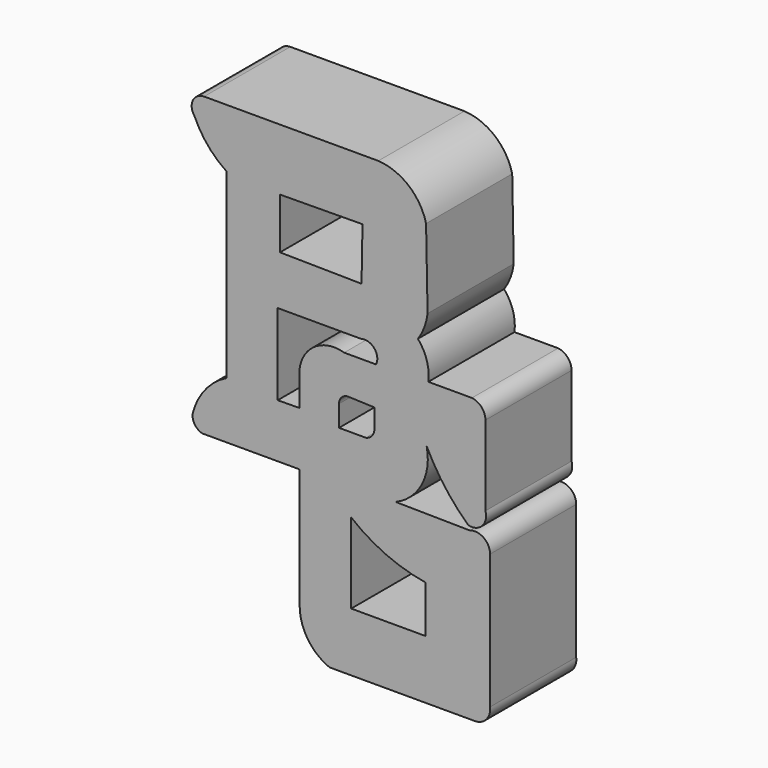
from build123d import *

# Parameters (mm, degrees)
F1_DEPTH = 15
F2_DEPTH = 2.5
F3_DEPTH = 25


with BuildPart() as f1:
    # F0 (on Front) → F1 (new body)
    with BuildSketch(Plane.XZ):
        with BuildLine():
            ThreePointArc((-34.751754, 51.786974), (-31.688129, 46.832693), (-27.364016, 42.92978))
            Line((-27.364016, 42.92978), (-27.364016, 0.631911))
            ThreePointArc((-27.364016, 0.631911), (-32.344059, -3.421449), (-35.177484, -9.18359))
            ThreePointArc((-35.177484, -9.18359), (-34.671706, -11.266714), (-32.907836, -12.4849))
            Line((-32.907836, -12.4849), (-10.331013, -12.4849))
            Line((-10.331013, -12.4849), (-10.331013, -40.363941))
            ThreePointArc((-10.331013, -40.363941), (-8.440878, -46.57815), (-3.410706, -50.687455))
            Line((-3.410706, -50.687455), (30.331215, -50.687455))
            ThreePointArc((30.331215, -50.687455), (33.010256, -49.475316), (33.868331, -46.6628))
            Line((33.868331, -46.6628), (33.868331, -15.41826))
            ThreePointArc((33.868331, -15.41826), (32.369677, -12.53986), (29.152177, -12.116951))
            Line((29.152177, -12.116951), (11.938204, -11.881143))
            ThreePointArc((11.938204, -11.881143), (18.050529, -6.295658), (19.130344, 1.913616))
            ThreePointArc((19.130344, 1.913616), (23.351533, -5.064206), (28.793937, -11.137811))
            ThreePointArc((28.793937, -11.137811), (32.039808, -10.233968), (32.788105, -6.948748))
            Line((32.788105, -6.948748), (32.788105, 11.612454))
            ThreePointArc((32.788105, 11.612454), (31.89459, 13.962579), (29.665431, 15.125466))
            Line((29.665431, 15.125466), (19.534895, 15.125466))
            ThreePointArc((19.534895, 15.125466), (19.187726, 19.388686), (17.125975, 23.13632))
            ThreePointArc((17.125975, 23.13632), (18.607422, 25.946601), (19.366147, 29.031517))
            Line((19.366147, 29.031517), (19.012436, 47.306627))
            ThreePointArc((19.012436, 47.306627), (14.987699, 53.732755), (7.929467, 56.503132))
            Line((7.929467, 56.503132), (-32.511577, 56.503132))
            ThreePointArc((-32.511577, 56.503132), (-35.122158, 54.853038), (-34.751754, 51.786974))
        make_face()
        with BuildLine():
            Line((1.638178, -37.033778), (1.638178, -18.418202))
            ThreePointArc((1.638178, -18.418202), (9.7814, -23.388924), (18.930372, -26.09382))
            Line((18.930372, -26.09382), (18.930372, -37.033778))
            Line((18.930372, -37.033778), (1.638178, -37.033778))
        make_face(mode=Mode.SUBTRACT)
        with BuildLine():
            Line((0.779622, 6.056475), (7.012051, 5.82512))
            Line((7.012051, 5.82512), (7.025873, 1.415433))
            ThreePointArc((7.025873, 1.415433), (6.459904, -0.16527), (5.013869, -1.018453))
            Line((5.013869, -1.018453), (-1.193664, -1.018453))
            Line((-1.193664, -1.018453), (-1.193664, 3.909603))
            ThreePointArc((-1.193664, 3.909603), (-0.625401, 5.367591), (0.779622, 6.056475))
        make_face(mode=Mode.SUBTRACT)
        with BuildLine():
            Line((-15.418217, 0), (-15.418217, 18.833645))
            Line((-15.418217, 18.833645), (3.903346, 18.833645))
            ThreePointArc((3.903346, 18.833645), (6.97837, 17.914546), (7.416358, 14.735131))
            Line((7.416358, 14.735131), (0, 14.735131))
            ThreePointArc((0, 14.735131), (-7.187256, 13.466433), (-10.416982, 6.921578))
            Line((-10.416982, 6.921578), (-10.345434, 0.052841))
            Line((-10.345434, 0.052841), (-15.418217, 0))
        make_face(mode=Mode.SUBTRACT)
        Polygon((-14.898672, 30.383811), (-14.898672, 42.196874), (4.256723, 42.367905), (4.034158, 30.126804), align=None, mode=Mode.SUBTRACT)
    extrude(amount=F1_DEPTH)

    # F0 (on Front) → F2 (cut, symmetric)
    with BuildSketch(Plane.XZ):
        with BuildLine():
            ThreePointArc((-34.751754, 51.786974), (-31.688129, 46.832693), (-27.364016, 42.92978))
            Line((-27.364016, 42.92978), (-27.364016, 0.631911))
            ThreePointArc((-27.364016, 0.631911), (-32.344059, -3.421449), (-35.177484, -9.18359))
            ThreePointArc((-35.177484, -9.18359), (-34.671706, -11.266714), (-32.907836, -12.4849))
            Line((-32.907836, -12.4849), (-10.331013, -12.4849))
            Line((-10.331013, -12.4849), (-10.331013, -40.363941))
            ThreePointArc((-10.331013, -40.363941), (-8.440878, -46.57815), (-3.410706, -50.687455))
            Line((-3.410706, -50.687455), (30.331215, -50.687455))
            ThreePointArc((30.331215, -50.687455), (33.010256, -49.475316), (33.868331, -46.6628))
            Line((33.868331, -46.6628), (33.868331, -15.41826))
            ThreePointArc((33.868331, -15.41826), (32.369677, -12.53986), (29.152177, -12.116951))
            Line((29.152177, -12.116951), (11.938204, -11.881143))
            ThreePointArc((11.938204, -11.881143), (18.050529, -6.295658), (19.130344, 1.913616))
            ThreePointArc((19.130344, 1.913616), (23.351533, -5.064206), (28.793937, -11.137811))
            ThreePointArc((28.793937, -11.137811), (32.039808, -10.233968), (32.788105, -6.948748))
            Line((32.788105, -6.948748), (32.788105, 11.612454))
            ThreePointArc((32.788105, 11.612454), (31.89459, 13.962579), (29.665431, 15.125466))
            Line((29.665431, 15.125466), (19.534895, 15.125466))
            ThreePointArc((19.534895, 15.125466), (19.187726, 19.388686), (17.125975, 23.13632))
            ThreePointArc((17.125975, 23.13632), (18.607422, 25.946601), (19.366147, 29.031517))
            Line((19.366147, 29.031517), (19.012436, 47.306627))
            ThreePointArc((19.012436, 47.306627), (14.987699, 53.732755), (7.929467, 56.503132))
            Line((7.929467, 56.503132), (-32.511577, 56.503132))
            ThreePointArc((-32.511577, 56.503132), (-35.122158, 54.853038), (-34.751754, 51.786974))
        make_face()
        with BuildLine():
            Line((1.638178, -37.033778), (1.638178, -18.418202))
            ThreePointArc((1.638178, -18.418202), (9.7814, -23.388924), (18.930372, -26.09382))
            Line((18.930372, -26.09382), (18.930372, -37.033778))
            Line((18.930372, -37.033778), (1.638178, -37.033778))
        make_face(mode=Mode.SUBTRACT)
        with BuildLine():
            Line((0.779622, 6.056475), (7.012051, 5.82512))
            Line((7.012051, 5.82512), (7.025873, 1.415433))
            ThreePointArc((7.025873, 1.415433), (6.459904, -0.16527), (5.013869, -1.018453))
            Line((5.013869, -1.018453), (-1.193664, -1.018453))
            Line((-1.193664, -1.018453), (-1.193664, 3.909603))
            ThreePointArc((-1.193664, 3.909603), (-0.625401, 5.367591), (0.779622, 6.056475))
        make_face(mode=Mode.SUBTRACT)
        with BuildLine():
            Line((-15.418217, 0), (-15.418217, 18.833645))
            Line((-15.418217, 18.833645), (3.903346, 18.833645))
            ThreePointArc((3.903346, 18.833645), (6.97837, 17.914546), (7.416358, 14.735131))
            Line((7.416358, 14.735131), (0, 14.735131))
            ThreePointArc((0, 14.735131), (-7.187256, 13.466433), (-10.416982, 6.921578))
            Line((-10.416982, 6.921578), (-10.345434, 0.052841))
            Line((-10.345434, 0.052841), (-15.418217, 0))
        make_face(mode=Mode.SUBTRACT)
        Polygon((-14.898672, 30.383811), (-14.898672, 42.196874), (4.256723, 42.367905), (4.034158, 30.126804), align=None, mode=Mode.SUBTRACT)
    extrude(amount=F2_DEPTH, both=True, mode=Mode.SUBTRACT)

    # F0 (on Front) → F3 (join)
    with BuildSketch(Plane.XZ):
        with BuildLine():
            ThreePointArc((-34.751754, 51.786974), (-31.688129, 46.832693), (-27.364016, 42.92978))
            Line((-27.364016, 42.92978), (-27.364016, 0.631911))
            ThreePointArc((-27.364016, 0.631911), (-32.344059, -3.421449), (-35.177484, -9.18359))
            ThreePointArc((-35.177484, -9.18359), (-34.671706, -11.266714), (-32.907836, -12.4849))
            Line((-32.907836, -12.4849), (-10.331013, -12.4849))
            Line((-10.331013, -12.4849), (-10.331013, -40.363941))
            ThreePointArc((-10.331013, -40.363941), (-8.440878, -46.57815), (-3.410706, -50.687455))
            Line((-3.410706, -50.687455), (30.331215, -50.687455))
            ThreePointArc((30.331215, -50.687455), (33.010256, -49.475316), (33.868331, -46.6628))
            Line((33.868331, -46.6628), (33.868331, -15.41826))
            ThreePointArc((33.868331, -15.41826), (32.369677, -12.53986), (29.152177, -12.116951))
            Line((29.152177, -12.116951), (11.938204, -11.881143))
            ThreePointArc((11.938204, -11.881143), (18.050529, -6.295658), (19.130344, 1.913616))
            ThreePointArc((19.130344, 1.913616), (23.351533, -5.064206), (28.793937, -11.137811))
            ThreePointArc((28.793937, -11.137811), (32.039808, -10.233968), (32.788105, -6.948748))
            Line((32.788105, -6.948748), (32.788105, 11.612454))
            ThreePointArc((32.788105, 11.612454), (31.89459, 13.962579), (29.665431, 15.125466))
            Line((29.665431, 15.125466), (19.534895, 15.125466))
            ThreePointArc((19.534895, 15.125466), (19.187726, 19.388686), (17.125975, 23.13632))
            ThreePointArc((17.125975, 23.13632), (18.607422, 25.946601), (19.366147, 29.031517))
            Line((19.366147, 29.031517), (19.012436, 47.306627))
            ThreePointArc((19.012436, 47.306627), (14.987699, 53.732755), (7.929467, 56.503132))
            Line((7.929467, 56.503132), (-32.511577, 56.503132))
            ThreePointArc((-32.511577, 56.503132), (-35.122158, 54.853038), (-34.751754, 51.786974))
        make_face()
        with BuildLine():
            Line((1.638178, -37.033778), (1.638178, -18.418202))
            ThreePointArc((1.638178, -18.418202), (9.7814, -23.388924), (18.930372, -26.09382))
            Line((18.930372, -26.09382), (18.930372, -37.033778))
            Line((18.930372, -37.033778), (1.638178, -37.033778))
        make_face(mode=Mode.SUBTRACT)
        with BuildLine():
            Line((0.779622, 6.056475), (7.012051, 5.82512))
            Line((7.012051, 5.82512), (7.025873, 1.415433))
            ThreePointArc((7.025873, 1.415433), (6.459904, -0.16527), (5.013869, -1.018453))
            Line((5.013869, -1.018453), (-1.193664, -1.018453))
            Line((-1.193664, -1.018453), (-1.193664, 3.909603))
            ThreePointArc((-1.193664, 3.909603), (-0.625401, 5.367591), (0.779622, 6.056475))
        make_face(mode=Mode.SUBTRACT)
        with BuildLine():
            Line((-15.418217, 0), (-15.418217, 18.833645))
            Line((-15.418217, 18.833645), (3.903346, 18.833645))
            ThreePointArc((3.903346, 18.833645), (6.97837, 17.914546), (7.416358, 14.735131))
            Line((7.416358, 14.735131), (0, 14.735131))
            ThreePointArc((0, 14.735131), (-7.187256, 13.466433), (-10.416982, 6.921578))
            Line((-10.416982, 6.921578), (-10.345434, 0.052841))
            Line((-10.345434, 0.052841), (-15.418217, 0))
        make_face(mode=Mode.SUBTRACT)
        Polygon((-14.898672, 30.383811), (-14.898672, 42.196874), (4.256723, 42.367905), (4.034158, 30.126804), align=None, mode=Mode.SUBTRACT)
    extrude(amount=F3_DEPTH)


solid = f1.part
